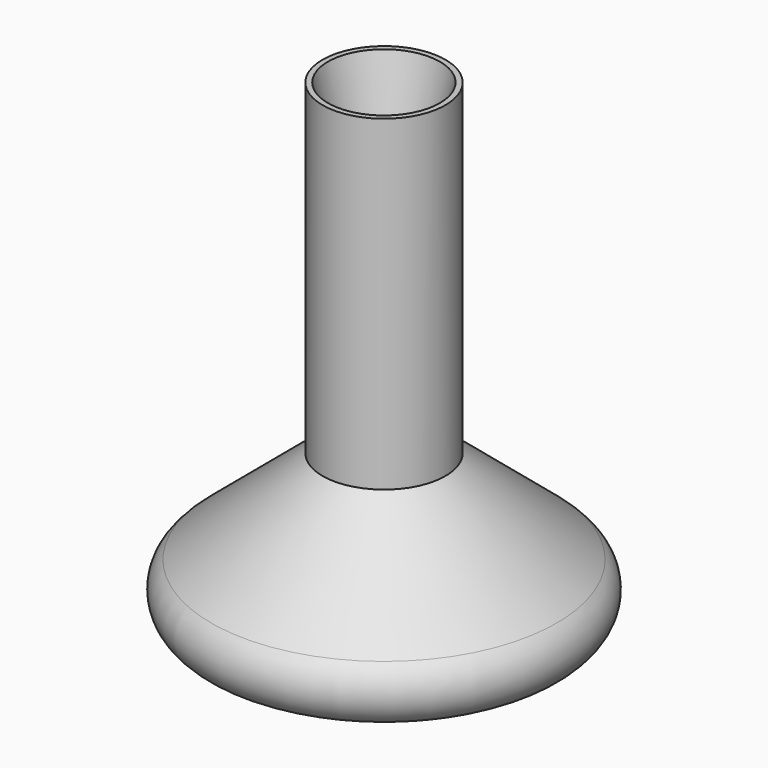
from build123d import *

# Parameters (mm, degrees)
F2_R     = 5
F3_R     = 4.25
F4_DEPTH = 70


with BuildPart() as f1:
    # F0 (on Front) → F1 (revolve)
    with BuildSketch(Plane.XZ):
        with BuildLine():
            Line((-0.7845937077, 51.5), (-9.7845937077, 51.5))
            Line((-9.7845937077, 51.5), (-9.7845937077, 3.6967689234))
            Line((-9.7845937077, 3.6967689234), (-36.5961492169, -18.8007974156))
            Line((-36.5961492169, -18.8007974156), (-22.5946347751, -18.8007974156))
            Line((-22.5946347751, -18.8007974156), (-2.5706556593, -1.9986839248))
            ThreePointArc((-2.5706556593, -1.9986839248), (-1.2530547725, -0.2815530179), (-0.7845937077, 1.8315382908))
            Line((-0.7845937077, 1.8315382908), (-0.7845937077, 51.5))
        make_face()
    revolve(axis=Axis((-0.7845937077, 0, 26.6657691454), (0, 0, -1)))

    # F2
    f2_edges = [f1.edges().sort_by_distance(p)[0] for p in [
        (35.026962, 0, -18.800797),
    ]]
    fillet(f2_edges, radius=F2_R)

    # F3 (on face) → F4 (cut)
    with BuildSketch(Plane.XY.offset(51.5)):
        with Locations((-0.7845937077, 0)):
            Circle(F3_R)
    extrude(amount=-F4_DEPTH, mode=Mode.SUBTRACT)

    # F5 (on Front) → F6 (revolve, cut)
    with BuildSketch(Plane.XZ):
        Polygon((7.4, 51.5), (-0.8, 51.5), (-0.8, 35.5), (3.7, 35.5), align=None)
    revolve(axis=Axis((-0.8, 0, 43.5), (0, 0, -1)), mode=Mode.SUBTRACT)


solid = f1.part
